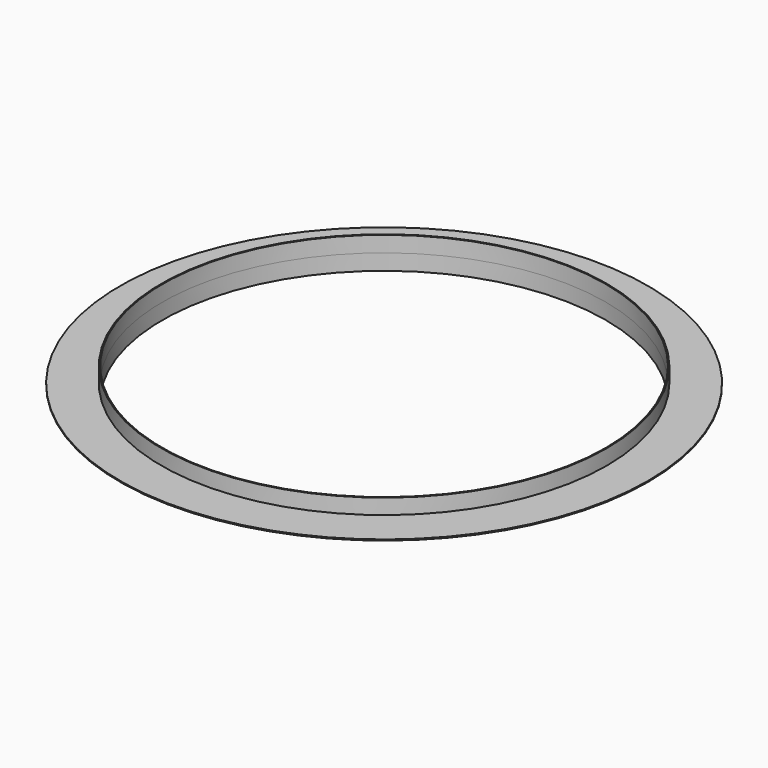
from build123d import *

# Parameters (mm, degrees)
F0_R          = 211
F0_R_2        = 210
F1_DEPTH      = 15
F1_DEPTH_BACK = 15
F0_R_3        = 250
F2_DEPTH      = 0.5
F2_DEPTH_BACK = 0.5


with BuildPart() as f1:
    # F0 (on Top) → F1 (new body, two sides)
    with BuildSketch(Plane.XY) as f1_sk:
        Circle(F0_R)
        Circle(F0_R_2, mode=Mode.SUBTRACT)
    extrude(amount=F1_DEPTH)
    extrude(f1_sk.sketch, amount=-F1_DEPTH_BACK)

    # F0 (on Top) → F2 (join, two sides)
    with BuildSketch(Plane.XY) as f2_sk:
        Circle(F0_R_3)
        Circle(F0_R, mode=Mode.SUBTRACT)
    extrude(amount=F2_DEPTH)
    extrude(f2_sk.sketch, amount=-F2_DEPTH_BACK)


solid = f1.part
